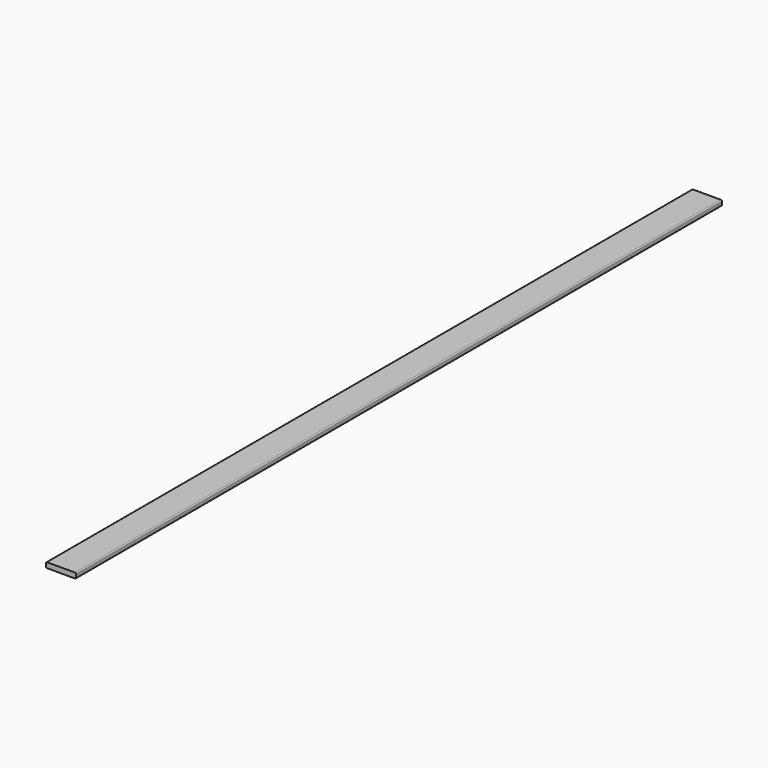
from build123d import *

# Parameters (mm, degrees)
F1_DEPTH = 1832.356


with BuildPart() as f1:
    # F0 (on Front) → F1 (new body, symmetric)
    with BuildSketch(Plane.XZ):
        with BuildLine():
            Line((63.246, 11.938), (-63.246, 11.938))
            ThreePointArc((-63.246, 11.938), (-66.658497, 10.524497), (-68.072, 7.112))
            Line((-68.072, 7.112), (-68.072, -7.112))
            ThreePointArc((-68.072, -7.112), (-66.658497, -10.524497), (-63.246, -11.938))
            Line((-63.246, -11.938), (63.246, -11.938))
            ThreePointArc((63.246, -11.938), (66.658497, -10.524497), (68.072, -7.112))
            Line((68.072, -7.112), (68.072, 7.112))
            ThreePointArc((68.072, 7.112), (66.658497, 10.524497), (63.246, 11.938))
        make_face()
    extrude(amount=F1_DEPTH, both=True)


solid = f1.part
